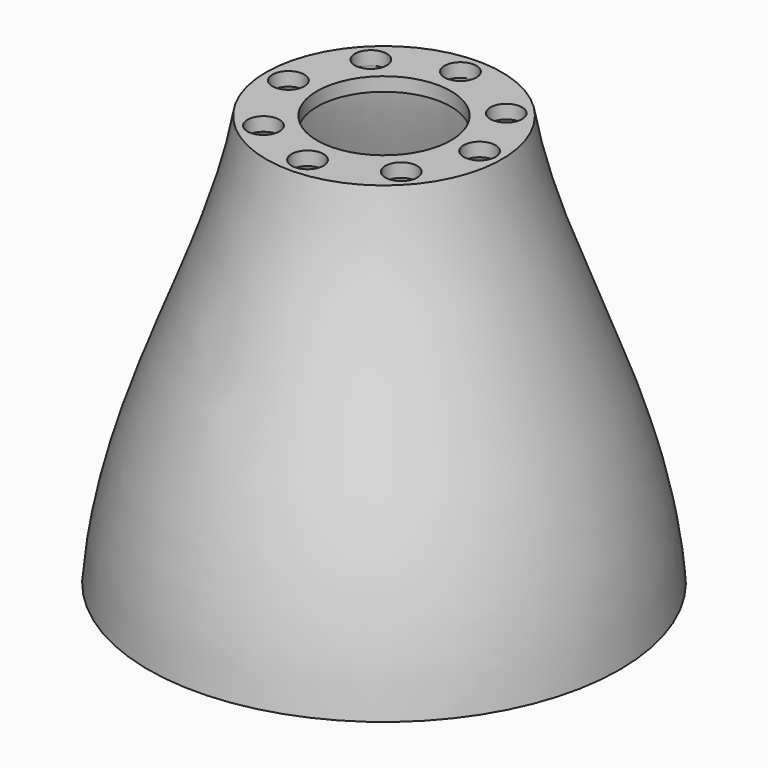
from build123d import *

# Parameters (mm, degrees)
F1_R     = 5
F3_DEPTH = 150


with BuildPart() as f2:
    # F0 (on Front) → F2 (revolve)
    with BuildSketch(Plane.XZ):
        with BuildLine():
            Line((-21, 129), (-37, 129))
            add(Edge.make_bspline(
                [(-37, 129), (-44.265468, 85.932896), (-69.883182, 49.910668), (-74, 0)],
                knots=[0, 0, 0, 0, 134.201341, 134.201341, 134.201341, 134.201341], degree=3))
            Line((-74, 0), (-72, 0))
            add(Edge.make_bspline(
                [(-35.002612, 124.699667), (-37.74716, 95.538817), (-66.5109, 50.596807), (-72, 0)],
                knots=[0, 0, 0, 0, 130.07234, 130.07234, 130.07234, 130.07234], degree=3))
            Line((-35.002612, 124.699667), (-21, 124.699667))
            Line((-21, 124.699667), (-21, 129))
        make_face()
    revolve(axis=Axis((0, 0, 60.847165), (0, 0, 1)))

    # F1 (on Top) → F3 (cut, symmetric)
    with BuildSketch(Plane.XY):
        with Locations((0, 30)):
            Circle(F1_R)
        with Locations((-30, 0)):
            Circle(F1_R)
        with Locations((0, -30)):
            Circle(F1_R)
        with Locations((30, 0)):
            Circle(F1_R)
        with Locations((-19.814494, -22.525227)):
            Circle(F1_R)
        with Locations((22.55436, 19.781326)):
            Circle(F1_R)
        with Locations((-21.143577, 21.282602)):
            Circle(F1_R)
        with Locations((21.858871, -20.547257)):
            Circle(F1_R)
    extrude(amount=F3_DEPTH, both=True, mode=Mode.SUBTRACT)


solid = f2.part
